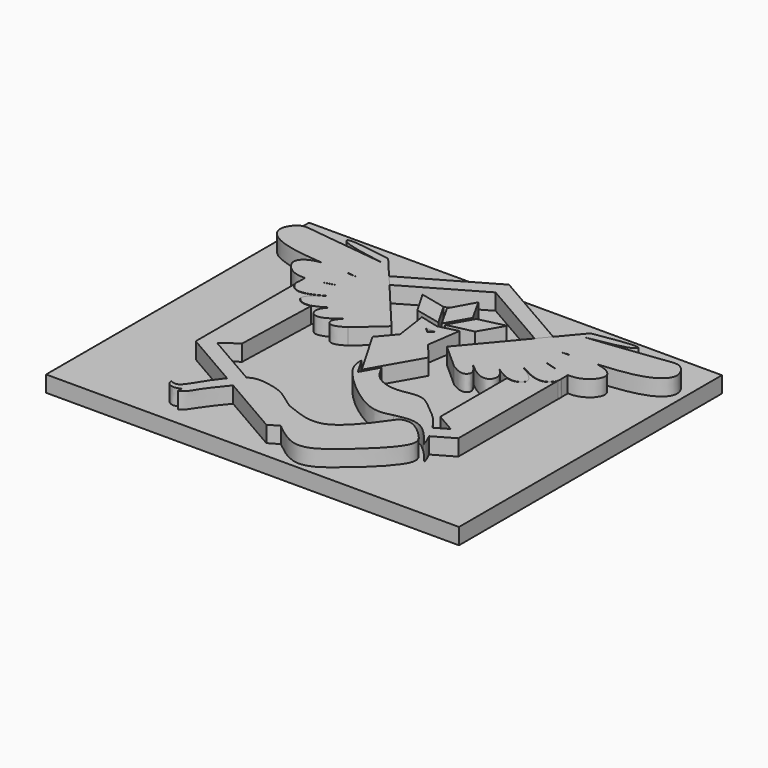
from build123d import *

# Parameters (mm, degrees)
F1_DEPTH = 10
F3_DEPTH = 10
F4_W     = 127.7562975883
F4_H     = 101.6951464117
F5_DEPTH = 5


with BuildPart() as f1:
    # F0 (on Top) → F1 (new body)
    with BuildSketch(Plane.XY):
        Polygon((-0.037533503, -10.0532314779), (8.6033990585, 5.0617455235), (4.2862257953, 10.1903617825), (5.7924173777, 20.5342948986), (-0.030947468, 19.0589953307), (-5.8543123136, 20.5342948986), (-4.3504838601, 10.2065908247), (-8.7271488798, 5.0265890218), align=None)
        Polygon((1.3200681544, 16.4562377287), (-0.030947468, 15.3189780414), (-1.3819630904, 16.4562377287), (-0.030947468, 16.4562377287), align=None, mode=Mode.SUBTRACT)
    extrude(amount=F1_DEPTH)


with BuildPart() as f1b:
    # F0 (on Top) → F1, piece 2 (new body)
    with BuildSketch(Plane.XY):
        with BuildLine():
            add(Edge.make_bspline(
                [(34.4284013555, -27.045455792), (35.3600013573, -28.9372826961), (37.0008979134, -33.1050957897), (29.9156782918, -21.8588097522), (23.8956450234, -23.1669477378), (20.8312440664, -23.8328333944)],
                knots=[0.6588598215, 0.6588598215, 0.6588598215, 0.6588598215, 0.7329669573, 0.8639882468, 1, 1, 1, 1], degree=3))
            add(Edge.make_bspline(
                [(32.2644740954, -23.0931151178), (33.0506844863, -24.379258321), (33.8133728368, -25.7964996991), (34.4284013555, -27.045455792)],
                knots=[0.6099353885, 0.6099353885, 0.6099353885, 0.6099353885, 0.6588598215, 0.6588598215, 0.6588598215, 0.6588598215], degree=3))
            add(Edge.make_bspline(
                [(3.0567574293, -6.1944438678), (3.9848109918, -8.003837565), (6.0107699758, -11.7542419141), (13.4800727578, -13.6374724066), (20.3321871566, -11.0420356518), (25.6511892095, -16.2087529946), (29.5313785943, -18.8196734729), (31.9652152447, -22.6035645581), (32.2644740954, -23.0931151178)],
                knots=[0, 0, 0, 0, 0.1103657069, 0.2303463498, 0.3471987609, 0.4601875072, 0.5913130582, 0.6099353885, 0.6099353885, 0.6099353885, 0.6099353885], degree=3))
            Line((3.0567574293, -6.1944438678), (-0.030947468, -11.5955493825))
            Line((-0.030947468, -11.5955493825), (-3.1186523653, -6.1944438678))
            add(Edge.make_bspline(
                [(20.8312440664, -23.8328333944), (18.7337018362, -24.4000098778), (13.1694232262, -25.9045936373), (-3.1674802695, -12.0688431783), (-3.1310528339, -7.686322452), (-3.1186523653, -6.1944438678)],
                knots=[0, 0, 0, 0, 0.2852447221, 0.7566861269, 1, 1, 1, 1], degree=3))
        make_face()
        with BuildLine():
            add(Edge.make_bspline(
                [(30.1520851954, 8.4418345719), (30.7056616309, 8.2742651756), (32.9674508776, 7.8792363089), (36.6506115224, 10.1905418663), (32.7850870608, 13.1548644755), (30.1463745871, 14.8571090417)],
                knots=[0.3359988487, 0.3359988487, 0.3359988487, 0.3359988487, 0.4067925409, 0.6343208012, 0.914371172, 0.914371172, 0.914371172, 0.914371172], degree=3))
            Line((30.1520851954, 8.4418345719), (30.1750758658, -17.3857924541))
            Line((30.1750758658, -17.3857924541), (36.1591195689, -20.8406816928))
            Line((36.1591195689, -20.8406816928), (32.2644740954, -23.0931151178))
            add(Edge.make_bspline(
                [(32.2644740954, -23.0931151178), (33.0506844863, -24.379258321), (33.8133728368, -25.7964996991), (34.4284013555, -27.045455792)],
                knots=[0.6099353885, 0.6099353885, 0.6099353885, 0.6099353885, 0.6588598215, 0.6588598215, 0.6588598215, 0.6588598215], degree=3))
            Line((34.4284013555, -27.045455792), (40.617752094, -23.4734256343))
            Line((40.617752094, -23.4734256343), (40.6335805026, 15.0312106805))
            add(Edge.make_bspline(
                [(30.1462746106, 14.9694222306), (33.2711890194, 13.2106124385), (37.8329188573, 11.1493299763), (40.3411280668, 13.9802111115), (40.6335805026, 15.0312106805)],
                knots=[0.08117602, 0.08117602, 0.08117602, 0.08117602, 0.3868465611, 0.5546064367, 0.5546064367, 0.5546064367, 0.5546064367], degree=3))
            Line((30.1462746106, 14.9694222306), (30.1463745871, 14.8571090417))
        make_face()
    extrude(amount=F1_DEPTH)


with BuildPart() as f1c:
    # F0 (on Top) → F1, piece 3 (new body)
    with BuildSketch(Plane.XY):
        with BuildLine():
            add(Edge.make_bspline(
                [(-19.2007327378, -30.6506493477), (-19.9600268212, -31.1982149243), (-20.9783985141, -31.9326145402), (-22.2969216909, -33.4388983059), (-22.6419915734, -33.8559761378)],
                knots=[0, 0, 0, 0, 0.187796204, 0.2518738686, 0.2518738686, 0.2518738686, 0.2518738686], degree=3))
            add(Edge.make_bspline(
                [(-22.6419915734, -33.8559761378), (-23.8560441479, -35.3233728632), (-26.5268603611, -39.1027607762), (-28.4447230038, -42.6391613379), (-30.3764073483, -44.2701016299), (-31.6718289502, -43.6769753014), (-32.3084965348, -43.3854684234)],
                knots=[0.2518738686, 0.2518738686, 0.2518738686, 0.2518738686, 0.4773170546, 0.7034772927, 0.8542664446, 1, 1, 1, 1], degree=3))
            add(Edge.make_bspline(
                [(-32.3084965348, -43.3854684234), (-32.1795805473, -43.908451779), (-31.9050702893, -45.0220785574), (-29.7321828674, -45.8117255746), (-28.4271400102, -45.2735521352), (-27.7666039765, -45.0011603534)],
                knots=[0, 0, 0, 0, 0.3042440872, 0.6478492269, 1, 1, 1, 1], degree=3))
            add(Edge.make_bspline(
                [(-27.7666039765, -45.0011603534), (-27.7466289874, -45.5680827015), (-27.7207636516, -46.302182574), (-27.8652992663, -46.6704373768), (-25.650460806, -45.107865042), (-24.620108858, -42.6263789611), (-21.0456112875, -38.1389553448), (-19.3560982845, -36.0863494154), (-19.1691676856, -35.8644439277)],
                knots=[0, 0, 0, 0, 0.0806988872, 0.1044958679, 0.2024237612, 0.3234768165, 0.514557657, 0.5390666627, 0.5390666627, 0.5390666627, 0.5390666627], degree=3))
            add(Edge.make_bspline(
                [(-19.1691676856, -35.8644439277), (-18.2446005856, -34.7668894642), (-16.5448454368, -33.0271320622), (-11.9689752712, -32.9941825697), (-7.8569858659, -36.5062585882), (-5.3997897313, -38.6049652643)],
                knots=[0.5390666627, 0.5390666627, 0.5390666627, 0.5390666627, 0.6602893007, 0.7969995214, 1, 1, 1, 1], degree=3))
            add(Edge.make_bspline(
                [(-0.030947468, -42.5693872959), (-1.839595469, -41.0505914318), (-3.6428744887, -39.6175814944), (-5.3997897313, -38.6049652643)],
                knots=[0.9225863183, 0.9225863183, 0.9225863183, 0.9225863183, 1, 1, 1, 1], degree=3))
            add(Edge.make_bspline(
                [(3.0319597178, -45.1651328166), (2.0142041592, -44.3127222397), (0.9907716691, -43.4273667361), (-0.030947468, -42.5693872959)],
                knots=[0.8788547353, 0.8788547353, 0.8788547353, 0.8788547353, 0.9225863183, 0.9225863183, 0.9225863183, 0.9225863183], degree=3))
            add(Edge.make_bspline(
                [(23.2507772744, -24.6867854148), (25.6337809798, -23.64421971), (28.6176010982, -24.9448565404), (32.2874450588, -28.168884329), (35.8691585685, -32.8962936625), (22.838232396, -45.2567678434), (12.9246488065, -52.9079454367), (5.781584896, -47.4680527705), (3.0319597178, -45.1651328166)],
                knots=[0, 0, 0, 0, 0.1236167905, 0.2403574098, 0.3499522813, 0.5672308883, 0.7607070519, 0.8788547353, 0.8788547353, 0.8788547353, 0.8788547353], degree=3))
            add(Edge.make_bspline(
                [(23.2507772744, -24.6867854148), (18.6963640153, -31.0914274305), (11.984949256, -40.127931258), (2.1353757382, -37.3791689726), (-0.5674925822, -36.0760557064), (-1.9408066291, -35.6458351016)],
                knots=[0, 0, 0, 0, 0.4648187878, 0.7730588392, 1, 1, 1, 1], degree=3))
            add(Edge.make_bspline(
                [(-1.9408066291, -35.6458351016), (-3.14190963, -34.8333496287), (-5.5382614372, -33.2123387496), (-8.5966224781, -30.6370317322), (-16.6117178489, -29.0807235817), (-18.493339203, -30.2217003518), (-19.2007327378, -30.6506493477)],
                knots=[0, 0, 0, 0, 0.2400971888, 0.4790241402, 0.8041396829, 1, 1, 1, 1], degree=3))
        make_face()
        with BuildLine():
            add(Edge.make_bspline(
                [(-30.2000900479, 14.973970379), (-33.3280068647, 13.2129078214), (-37.8312073865, 11.1758957294), (-40.3342467757, 13.9039273125), (-40.6590885916, 14.9101392527)],
                knots=[0.0809125949, 0.0809125949, 0.0809125949, 0.0809125949, 0.3868465611, 0.5481516251, 0.5481516251, 0.5481516251, 0.5481516251], degree=3))
            Line((-40.6590885916, 14.9101392527), (-40.6585509916, -23.4363060231))
            Line((-40.6585509916, -23.4363060231), (-22.6419915734, -33.8559761378))
            add(Edge.make_bspline(
                [(-19.2007327378, -30.6506493477), (-19.9600268212, -31.1982149243), (-20.9783985141, -31.9326145402), (-22.2969216909, -33.4388983059), (-22.6419915734, -33.8559761378)],
                knots=[0, 0, 0, 0, 0.187796204, 0.2518738686, 0.2518738686, 0.2518738686, 0.2518738686], degree=3))
            Line((-19.2007327378, -30.6506493477), (-36.1281195654, -20.8943752724))
            Line((-36.1281195654, -20.8943752724), (-31.1401495775, -17.3779801948))
            Line((-31.1401495775, -17.3779801948), (-30.3913872018, 8.3905191504))
            add(Edge.make_bspline(
                [(-30.3913872018, 8.3905191504), (-30.8823739284, 8.2551977617), (-33.0776637877, 7.9095574414), (-36.713604643, 10.1912310136), (-32.8443545571, 13.156878838), (-30.2033943435, 14.8602537454)],
                knots=[0.3435862937, 0.3435862937, 0.3435862937, 0.3435862937, 0.4067925409, 0.6343208012, 0.9145436216, 0.9145436216, 0.9145436216, 0.9145436216], degree=3))
            Line((-30.2033943435, 14.8602537454), (-30.2000900479, 14.973970379))
        make_face()
        with BuildLine():
            add(Edge.make_bspline(
                [(-19.1691676856, -35.8644439277), (-18.2446005856, -34.7668894642), (-16.5448454368, -33.0271320622), (-11.9689752712, -32.9941825697), (-7.8569858659, -36.5062585882), (-5.3997897313, -38.6049652643)],
                knots=[0.5390666627, 0.5390666627, 0.5390666627, 0.5390666627, 0.6602893007, 0.7969995214, 1, 1, 1, 1], degree=3))
            Line((-19.1691676856, -35.8644439277), (-0.030947468, -46.9328136768))
            Line((-0.030947468, -46.9328136768), (3.0319597178, -45.1651328166))
            add(Edge.make_bspline(
                [(3.0319597178, -45.1651328166), (2.0142041592, -44.3127222397), (0.9907716691, -43.4273667361), (-0.030947468, -42.5693872959)],
                knots=[0.8788547353, 0.8788547353, 0.8788547353, 0.8788547353, 0.9225863183, 0.9225863183, 0.9225863183, 0.9225863183], degree=3))
            add(Edge.make_bspline(
                [(-0.030947468, -42.5693872959), (-1.839595469, -41.0505914318), (-3.6428744887, -39.6175814944), (-5.3997897313, -38.6049652643)],
                knots=[0.9225863183, 0.9225863183, 0.9225863183, 0.9225863183, 1, 1, 1, 1], degree=3))
        make_face()
    extrude(amount=F1_DEPTH)


with BuildPart() as f1d:
    # F0 (on Top) → F1, piece 4 (new body)
    with BuildSketch(Plane.XY):
        Polygon((-3.9473144122, 27.8420612727), (-0.0327185618, 20.8914031988), (3.9239003559, 27.8420612727), (-0.030947468, 34.9473459876), align=None)
    extrude(amount=F1_DEPTH)


with BuildPart() as f1e:
    # F0 (on Top) → F1, piece 5 (new body)
    with BuildSketch(Plane.XY):
        Polygon((-8.9830060997, 22.6532355849), (-1.1140419221, 20.8615778857), (-5.1373155558, 27.8420612727), (-13.027295164, 29.6701812854), align=None)
    extrude(amount=F1_DEPTH)


with BuildPart() as f1f:
    # F0 (on Top) → F1, piece 6 (new body)
    with BuildSketch(Plane.XY):
        Polygon((5.0754206198, 27.8420612727), (1.0521469861, 20.8615778857), (8.9211111637, 22.6532355849), (12.9654002281, 29.6701812854), align=None)
    extrude(amount=F1_DEPTH)


with BuildPart() as f1g:
    # F0 (on Top) → F1, piece 7 (new body)
    with BuildSketch(Plane.XY):
        with BuildLine():
            Line((-0.030947468, 46.9327932705), (-25.5012995117, 32.2370034801))
            add(Edge.make_bspline(
                [(-22.5710441101, 28.741399743), (-23.5477959106, 29.9066009887), (-24.5245477112, 31.0718022344), (-25.5012995117, 32.2370034801)],
                knots=[21.7476548434, 21.7476548434, 21.7476548434, 21.7476548434, 26.3089750696, 26.3089750696, 26.3089750696, 26.3089750696], degree=3))
            Line((-22.5710441101, 28.741399743), (-0.0310000007, 41.7350569739))
            Line((-0.0310000007, 41.7350569739), (22.5105111039, 28.7430244364))
            add(Edge.make_bspline(
                [(22.5105111039, 28.7430244364), (23.4892387778, 29.9105827703), (24.4679664517, 31.0781411041), (25.4466941256, 32.245699438)],
                knots=[21.7497748626, 21.7497748626, 21.7497748626, 21.7497748626, 26.3203221935, 26.3203221935, 26.3203221935, 26.3203221935], degree=3))
            Line((25.4466941256, 32.245699438), (-0.030947468, 46.9327932705))
        make_face()
    extrude(amount=F1_DEPTH)


with BuildPart() as f1h:
    # F0 (on Top) → F1, piece 8 (new body)
    with BuildSketch(Plane.XY):
        with BuildLine():
            add(Edge.make_bspline(
                [(-36.6182222485, 19.3310602575), (-38.0221882921, 18.9921384058), (-39.3813816477, 18.7580774874), (-40.6591419304, 18.7147388241)],
                knots=[0.1165194091, 0.1165194091, 0.1165194091, 0.1165194091, 0.2119268233, 0.2119268233, 0.2119268233, 0.2119268233], degree=3))
            Line((-40.6591419304, 18.7147388241), (-40.6591113872, 16.5361297625))
            add(Edge.make_bspline(
                [(-40.6591113872, 16.5361297625), (-40.2084325599, 17.7162703655), (-38.6536256146, 18.5902886083), (-36.6182222485, 19.3310602575)],
                knots=[0.6363479988, 0.6363479988, 0.6363479988, 0.6363479988, 0.8417123454, 0.8417123454, 0.8417123454, 0.8417123454], degree=3))
        make_face()
    extrude(amount=F1_DEPTH)


with BuildPart() as f1i:
    # F0 (on Top) → F1, piece 9 (new body)
    with BuildSketch(Plane.XY):
        with BuildLine():
            add(Edge.make_bspline(
                [(-34.4221701261, 27.0898724522), (-37.1607609891, 27.2066657722), (-39.8646223733, 27.3385939124), (-42.4408649888, 27.5261372584)],
                knots=[0.0308509206, 0.0308509206, 0.0308509206, 0.0308509206, 0.1133664147, 0.1133664147, 0.1133664147, 0.1133664147], degree=3))
            Line((-34.4221701261, 27.0898724522), (-34.1055635389, 27.2725469532))
            add(Edge.make_bspline(
                [(-42.4408649888, 27.5261372584), (-40.0131358388, 27.7953066879), (-37.1142754386, 27.5893216122), (-34.1055635389, 27.2725469532)],
                knots=[0.7549390952, 0.7549390952, 0.7549390952, 0.7549390952, 0.9428602797, 0.9428602797, 0.9428602797, 0.9428602797], degree=3))
        make_face()
    extrude(amount=F1_DEPTH)


with BuildPart() as f1j:
    # F0 (on Top) → F1, piece 10 (new body)
    with BuildSketch(Plane.XY):
        with BuildLine():
            Line((40.6341559375, 16.431029886), (40.6350942149, 18.7135102538))
            add(Edge.make_bspline(
                [(36.5563273126, 19.3310602575), (37.9741639129, 18.9887900094), (39.3463387869, 18.7534628879), (40.6350942149, 18.7135102538)],
                knots=[0.1165194091, 0.1165194091, 0.1165194091, 0.1165194091, 0.2128694058, 0.2128694058, 0.2128694058, 0.2128694058], degree=3))
            add(Edge.make_bspline(
                [(40.6341559375, 16.431029886), (40.2377276752, 17.6646587457), (38.6516922955, 18.5684659728), (36.5563273126, 19.3310602575)],
                knots=[0.630298103, 0.630298103, 0.630298103, 0.630298103, 0.8417123454, 0.8417123454, 0.8417123454, 0.8417123454], degree=3))
        make_face()
    extrude(amount=F1_DEPTH)


with BuildPart() as f1k:
    # F0 (on Top) → F1, piece 11 (new body)
    with BuildSketch(Plane.XY):
        with BuildLine():
            Line((34.4195053844, 19.9079064183), (34.5517300836, 19.9842463838))
            add(Edge.make_bspline(
                [(34.5517300836, 19.9842463838), (33.5017570547, 20.296069661), (32.3903035064, 20.590847306), (31.2788499581, 20.8856249511)],
                knots=[0.9051250897, 0.9051250897, 0.9051250897, 0.9051250897, 1, 1, 1, 1], degree=3))
            add(Edge.make_bspline(
                [(31.2788499581, 20.8856249511), (32.3303123771, 20.5489984538), (33.3817747961, 20.2123719566), (34.4195053844, 19.9079064183)],
                knots=[0, 0, 0, 0, 0.0687742608, 0.0687742608, 0.0687742608, 0.0687742608], degree=3))
        make_face()
        with BuildLine():
            add(Edge.make_bspline(
                [(34.4195053844, 19.9079064183), (35.1399289875, 19.6965373379), (35.853734464, 19.5006683974), (36.5563273126, 19.3310602575)],
                knots=[0.0687742608, 0.0687742608, 0.0687742608, 0.0687742608, 0.1165194091, 0.1165194091, 0.1165194091, 0.1165194091], degree=3))
            add(Edge.make_bspline(
                [(36.5563273126, 19.3310602575), (35.9278320781, 19.5597969585), (35.2535138422, 19.7758291146), (34.5517300836, 19.9842463838)],
                knots=[0.8417123454, 0.8417123454, 0.8417123454, 0.8417123454, 0.9051250897, 0.9051250897, 0.9051250897, 0.9051250897], degree=3))
            Line((34.5517300836, 19.9842463838), (34.4195053844, 19.9079064183))
        make_face()
    extrude(amount=F1_DEPTH)


with BuildPart() as f1l:
    # F0 (on Top) → F1, piece 12 (new body)
    with BuildSketch(Plane.XY):
        with BuildLine():
            add(Edge.make_bspline(
                [(34.3884041139, 27.0910726591), (37.1173801677, 27.207569847), (39.8115482862, 27.3392360458), (42.3789700529, 27.5261372584)],
                knots=[0.031133447, 0.031133447, 0.031133447, 0.031133447, 0.1133664147, 0.1133664147, 0.1133664147, 0.1133664147], degree=3))
            add(Edge.make_bspline(
                [(42.3789700529, 27.5261372584), (39.9580501208, 27.79455173), (37.0686380602, 27.5904733551), (34.0689822223, 27.2752097692)],
                knots=[0.7549390952, 0.7549390952, 0.7549390952, 0.7549390952, 0.9423332043, 0.9423332043, 0.9423332043, 0.9423332043], degree=3))
            Line((34.0689822223, 27.2752097692), (34.3884041139, 27.0910726591))
        make_face()
        with BuildLine():
            Line((34.3884041139, 27.0910726591), (34.0689822223, 27.2752097692))
            add(Edge.make_bspline(
                [(34.0689822223, 27.2752097692), (33.1458980278, 27.178193695), (32.2123739929, 27.0706486288), (31.2788499581, 26.9631035626)],
                knots=[0.9423332043, 0.9423332043, 0.9423332043, 0.9423332043, 1, 1, 1, 1], degree=3))
            add(Edge.make_bspline(
                [(31.2788499581, 26.9631035626), (32.3170311144, 27.005035161), (33.3552122707, 27.0469667593), (34.3884041139, 27.0910726591)],
                knots=[0, 0, 0, 0, 0.031133447, 0.031133447, 0.031133447, 0.031133447], degree=3))
        make_face()
    extrude(amount=F1_DEPTH)


with BuildPart() as f3:
    # F2 (on Top) → F3 (new body)
    with BuildSketch(Plane.XY):
        with BuildLine():
            add(Edge.make_bspline(
                [(-42.4625238266, 27.6816681284), (-48.441517181, 28.1169223288), (-57.9284457804, 29.4343051194), (-62.8237151745, 34.8284945673), (-59.092817856, 40.23222254), (-54.2230191253, 39.5074424248), (-40.8177660802, 37.917921074), (-31.3624037319, 36.7967560887)],
                knots=[0.1133664147, 0.1133664147, 0.1133664147, 0.1133664147, 0.3048699586, 0.4566984909, 0.5874260631, 0.7089919858, 1, 1, 1, 1], degree=3))
            add(Edge.make_bspline(
                [(-40.6932788726, 18.8698524462), (-41.8517087322, 18.8316721147), (-45.6070576084, 19.2409570481), (-49.8768738904, 24.1441022945), (-46.2115579062, 27.0443853131), (-43.2452144075, 27.5948889351), (-42.4625238266, 27.6816681284)],
                knots=[0.2122374582, 0.2122374582, 0.2122374582, 0.2122374582, 0.2987706825, 0.5100013073, 0.694354025, 0.7549390952, 0.7549390952, 0.7549390952, 0.7549390952], degree=3))
            add(Edge.make_bspline(
                [(-36.6398810863, 19.4865911274), (-38.0484182723, 19.1465657875), (-39.4118907468, 18.9120853213), (-40.6932788726, 18.8698524462)],
                knots=[0.1165194091, 0.1165194091, 0.1165194091, 0.1165194091, 0.2122374582, 0.2122374582, 0.2122374582, 0.2122374582], degree=3))
            add(Edge.make_bspline(
                [(-40.6941891334, 16.6555262632), (-40.261695302, 17.8539936352), (-38.6960034406, 18.738278939), (-36.6398810863, 19.4865911274)],
                knots=[0.6342575328, 0.6342575328, 0.6342575328, 0.6342575328, 0.8417123454, 0.8417123454, 0.8417123454, 0.8417123454], degree=3))
            Line((-40.6941891334, 16.6555262632), (-40.6948242939, 15.1104167792))
            add(Edge.make_bspline(
                [(-30.2217488857, 15.129501249), (-33.3496657025, 13.3684386913), (-37.875890415, 11.3210116612), (-40.3814486588, 14.0874787815), (-40.6948242939, 15.1104167792)],
                knots=[0.0809125949, 0.0809125949, 0.0809125949, 0.0809125949, 0.3868465611, 0.5505405483, 0.5505405483, 0.5505405483, 0.5505405483], degree=3))
            add(Edge.make_bspline(
                [(-27.7148682451, 16.586560756), (-28.5546770398, 16.0909115537), (-29.3944858345, 15.5952623514), (-30.2217488857, 15.129501249)],
                knots=[0, 0, 0, 0, 0.0809125949, 0.0809125949, 0.0809125949, 0.0809125949], degree=3))
            add(Edge.make_bspline(
                [(-30.2250531813, 15.0157846154), (-29.4196694689, 15.5352435604), (-28.567268857, 16.0609021582), (-27.7148682451, 16.586560756)],
                knots=[0.9145436216, 0.9145436216, 0.9145436216, 0.9145436216, 1, 1, 1, 1], degree=3))
            add(Edge.make_bspline(
                [(-25.8691775941, 10.9627903922), (-28.0071693255, 9.4415081563), (-31.9350937138, 7.3344960258), (-36.7352634808, 10.3467618835), (-32.8660133949, 13.3124097079), (-30.2250531813, 15.0157846154)],
                knots=[0.1607656553, 0.1607656553, 0.1607656553, 0.1607656553, 0.4067925409, 0.6343208012, 0.9145436216, 0.9145436216, 0.9145436216, 0.9145436216], degree=3))
            add(Edge.make_bspline(
                [(-19.3467553591, 8.8511752233), (-21.0366741879, 7.3458359671), (-24.1021701096, 4.9400128041), (-27.5508975976, 4.8592248034), (-28.5923753493, 7.921293032), (-26.8961549693, 10.0071706501), (-25.8691775941, 10.9627903922)],
                knots=[0.1168233602, 0.1168233602, 0.1168233602, 0.1168233602, 0.3269855819, 0.5125971792, 0.6880016124, 0.8325746827, 0.8325746827, 0.8325746827, 0.8325746827], degree=3))
            add(Edge.make_bspline(
                [(-16.4931286334, 5.2172763935), (-17.874092499, 4.4372724907), (-20.2724846708, 3.0144847042), (-22.5760545019, 5.1742079464), (-20.7458687576, 7.4599197862), (-19.3467553591, 8.8511752233)],
                knots=[0, 0, 0, 0, 0.3228151937, 0.5471631559, 0.8281462975, 0.8281462975, 0.8281462975, 0.8281462975], degree=3))
            Line((-16.4931286334, 5.2172763935), (-8.6217077277, 12.2304437682))
            add(Edge.make_bspline(
                [(-8.6217077277, 12.2304437682), (-13.2787061344, 17.7859393831), (-17.9357045411, 23.341434998), (-22.5927029479, 28.8969306129)],
                knots=[0, 0, 0, 0, 21.7476548434, 21.7476548434, 21.7476548434, 21.7476548434], degree=3))
            add(Edge.make_bspline(
                [(-22.5927029479, 28.8969306129), (-25.5159365425, 32.3841577919), (-28.4391701372, 35.8713849709), (-31.3624037319, 39.35861215)],
                knots=[21.7476548434, 21.7476548434, 21.7476548434, 21.7476548434, 35.3988244791, 35.3988244791, 35.3988244791, 35.3988244791], degree=3))
            add(Edge.make_bspline(
                [(-31.3624037319, 36.7967560887), (-36.7102502106, 37.6946826951), (-43.7343638025, 38.8334685109), (-46.4547199475, 41.783531347), (-37.9054935767, 40.4283454727), (-31.3624037319, 39.35861215)],
                knots=[0, 0, 0, 0, 0.4277620958, 0.5627210758, 1, 1, 1, 1], degree=3))
        make_face()
        with BuildLine():
            add(Edge.make_bspline(
                [(-16.4931286334, 11.4979980244), (-17.4488112776, 10.5951195832), (-18.4073762717, 9.6879516369), (-19.3467553591, 8.8511752233)],
                knots=[0, 0, 0, 0, 0.1168233602, 0.1168233602, 0.1168233602, 0.1168233602], degree=3))
            add(Edge.make_bspline(
                [(-19.3467553591, 8.8511752233), (-18.4910356306, 9.7020888993), (-17.4926212955, 10.5980086989), (-16.4931286334, 11.4979980244)],
                knots=[0.8281462975, 0.8281462975, 0.8281462975, 0.8281462975, 1, 1, 1, 1], degree=3))
        make_face(mode=Mode.SUBTRACT)
        with BuildLine():
            add(Edge.make_bspline(
                [(-21.5948793864, 14.3093550578), (-23.0334958057, 13.133111768), (-24.472112225, 11.9568684783), (-25.8691775941, 10.9627903922)],
                knots=[0, 0, 0, 0, 0.1607656553, 0.1607656553, 0.1607656553, 0.1607656553], degree=3))
            add(Edge.make_bspline(
                [(-25.8691775941, 10.9627903922), (-24.6798688762, 12.0694621823), (-23.1410823287, 13.1938006402), (-21.5948793864, 14.3093550578)],
                knots=[0.8325746827, 0.8325746827, 0.8325746827, 0.8325746827, 1, 1, 1, 1], degree=3))
        make_face(mode=Mode.SUBTRACT)
        with BuildLine():
            add(Edge.make_bspline(
                [(-34.4950716996, 20.0657813281), (-35.2182067322, 19.8535162722), (-35.9346917371, 19.6568260708), (-36.6398810863, 19.4865911274)],
                knots=[0.068597814, 0.068597814, 0.068597814, 0.068597814, 0.1165194091, 0.1165194091, 0.1165194091, 0.1165194091], degree=3))
            add(Edge.make_bspline(
                [(-36.6398810863, 19.4865911274), (-36.0094073497, 19.7160478913), (-35.3328216558, 19.9327199966), (-34.6286553981, 20.1417453195)],
                knots=[0.8417123454, 0.8417123454, 0.8417123454, 0.8417123454, 0.9053247129, 0.9053247129, 0.9053247129, 0.9053247129], degree=3))
            add(Edge.make_bspline(
                [(-34.6286553981, 20.1417453195), (-33.5806336812, 20.4528409952), (-32.4715187066, 20.7469984081), (-31.3624037319, 21.041155821)],
                knots=[0.9053247129, 0.9053247129, 0.9053247129, 0.9053247129, 1, 1, 1, 1], degree=3))
            add(Edge.make_bspline(
                [(-31.3624037319, 21.041155821), (-32.4111685247, 20.7053929709), (-33.4599333174, 20.3696301208), (-34.4950716996, 20.0657813281)],
                knots=[0, 0, 0, 0, 0.068597814, 0.068597814, 0.068597814, 0.068597814], degree=3))
        make_face(mode=Mode.SUBTRACT)
        with BuildLine():
            add(Edge.make_bspline(
                [(-31.3624037319, 27.1186344326), (-32.3911637134, 27.1601855146), (-33.4199236949, 27.2017365965), (-34.4438289639, 27.2454033222)],
                knots=[0, 0, 0, 0, 0.0308509206, 0.0308509206, 0.0308509206, 0.0308509206], degree=3))
            add(Edge.make_bspline(
                [(-34.4438289639, 27.2454033222), (-37.1824198269, 27.3621966422), (-39.8862812111, 27.4941247824), (-42.4625238266, 27.6816681284)],
                knots=[0.0308509206, 0.0308509206, 0.0308509206, 0.0308509206, 0.1133664147, 0.1133664147, 0.1133664147, 0.1133664147], degree=3))
            add(Edge.make_bspline(
                [(-42.4625238266, 27.6816681284), (-40.0347946766, 27.9508375579), (-37.1359342764, 27.7448524822), (-34.1272223767, 27.4280778232)],
                knots=[0.7549390952, 0.7549390952, 0.7549390952, 0.7549390952, 0.9428602797, 0.9428602797, 0.9428602797, 0.9428602797], degree=3))
            add(Edge.make_bspline(
                [(-34.1272223767, 27.4280778232), (-33.2123869537, 27.3317586378), (-32.2873953428, 27.2251965352), (-31.3624037319, 27.1186344326)],
                knots=[0.9428602797, 0.9428602797, 0.9428602797, 0.9428602797, 1, 1, 1, 1], degree=3))
        make_face(mode=Mode.SUBTRACT)
        with BuildLine():
            add(Edge.make_bspline(
                [(-36.6398810863, 19.4865911274), (-38.0484182723, 19.1465657875), (-39.4118907468, 18.9120853213), (-40.6932788726, 18.8698524462)],
                knots=[0.1165194091, 0.1165194091, 0.1165194091, 0.1165194091, 0.2122374582, 0.2122374582, 0.2122374582, 0.2122374582], degree=3))
            Line((-40.6932788726, 18.8698524462), (-40.6941891334, 16.6555262632))
            add(Edge.make_bspline(
                [(-40.6941891334, 16.6555262632), (-40.261695302, 17.8539936352), (-38.6960034406, 18.738278939), (-36.6398810863, 19.4865911274)],
                knots=[0.6342575328, 0.6342575328, 0.6342575328, 0.6342575328, 0.8417123454, 0.8417123454, 0.8417123454, 0.8417123454], degree=3))
        make_face()
        with BuildLine():
            add(Edge.make_bspline(
                [(-34.4438289639, 27.2454033222), (-37.1824198269, 27.3621966422), (-39.8862812111, 27.4941247824), (-42.4625238266, 27.6816681284)],
                knots=[0.0308509206, 0.0308509206, 0.0308509206, 0.0308509206, 0.1133664147, 0.1133664147, 0.1133664147, 0.1133664147], degree=3))
            Line((-34.4438289639, 27.2454033222), (-34.1272223767, 27.4280778232))
            add(Edge.make_bspline(
                [(-42.4625238266, 27.6816681284), (-40.0347946766, 27.9508375579), (-37.1359342764, 27.7448524822), (-34.1272223767, 27.4280778232)],
                knots=[0.7549390952, 0.7549390952, 0.7549390952, 0.7549390952, 0.9428602797, 0.9428602797, 0.9428602797, 0.9428602797], degree=3))
        make_face()
        with BuildLine():
            add(Edge.make_bspline(
                [(-25.8691775941, 10.9627903922), (-24.6798688762, 12.0694621823), (-23.1410823287, 13.1938006402), (-21.5948793864, 14.3093550578)],
                knots=[0.8325746827, 0.8325746827, 0.8325746827, 0.8325746827, 1, 1, 1, 1], degree=3))
            add(Edge.make_bspline(
                [(-21.5948793864, 14.3093550578), (-23.0334958057, 13.133111768), (-24.472112225, 11.9568684783), (-25.8691775941, 10.9627903922)],
                knots=[0, 0, 0, 0, 0.1607656553, 0.1607656553, 0.1607656553, 0.1607656553], degree=3))
        make_face()
        with BuildLine():
            Line((-40.6948242939, 15.1104167792), (-40.6941891334, 16.6555262632))
            add(Edge.make_bspline(
                [(-40.6948242939, 15.1104167792), (-40.8475120912, 15.6088286918), (-40.8682457526, 16.1465994226), (-40.7024436007, 16.6326526196), (-40.6941891334, 16.6555262632)],
                knots=[0.5505405483, 0.5505405483, 0.5505405483, 0.5505405483, 0.630298103, 0.6342575328, 0.6342575328, 0.6342575328, 0.6342575328], degree=3))
        make_face()
        with BuildLine():
            add(Edge.make_bspline(
                [(-27.7148682451, 16.586560756), (-28.5546770398, 16.0909115537), (-29.3944858345, 15.5952623514), (-30.2217488857, 15.129501249)],
                knots=[0, 0, 0, 0, 0.0809125949, 0.0809125949, 0.0809125949, 0.0809125949], degree=3))
            Line((-30.2217488857, 15.129501249), (-30.2250531813, 15.0157846154))
            add(Edge.make_bspline(
                [(-30.2250531813, 15.0157846154), (-29.4196694689, 15.5352435604), (-28.567268857, 16.0609021582), (-27.7148682451, 16.586560756)],
                knots=[0.9145436216, 0.9145436216, 0.9145436216, 0.9145436216, 1, 1, 1, 1], degree=3))
        make_face()
        with BuildLine():
            add(Edge.make_bspline(
                [(-19.3467553591, 8.8511752233), (-18.4910356306, 9.7020888993), (-17.4926212955, 10.5980086989), (-16.4931286334, 11.4979980244)],
                knots=[0.8281462975, 0.8281462975, 0.8281462975, 0.8281462975, 1, 1, 1, 1], degree=3))
            add(Edge.make_bspline(
                [(-16.4931286334, 11.4979980244), (-17.4488112776, 10.5951195832), (-18.4073762717, 9.6879516369), (-19.3467553591, 8.8511752233)],
                knots=[0, 0, 0, 0, 0.1168233602, 0.1168233602, 0.1168233602, 0.1168233602], degree=3))
        make_face()
    extrude(amount=F3_DEPTH)


with BuildPart() as f3b:
    # F2 (on Top) → F3, piece 2 (new body)
    with BuildSketch(Plane.XY):
        with BuildLine():
            add(Edge.make_bspline(
                [(22.4888522661, 28.8985553064), (25.4116318841, 32.3852409209), (28.3344115022, 35.8719265354), (31.2571911203, 39.35861215)],
                knots=[21.7497748626, 21.7497748626, 21.7497748626, 21.7497748626, 35.3988244791, 35.3988244791, 35.3988244791, 35.3988244791], degree=3))
            add(Edge.make_bspline(
                [(8.5164951161, 12.2304437682), (13.1739474995, 17.7864809476), (17.8313998828, 23.342518127), (22.4888522661, 28.8985553064)],
                knots=[0, 0, 0, 0, 21.7497748626, 21.7497748626, 21.7497748626, 21.7497748626], degree=3))
            Line((8.5164951161, 12.2304437682), (16.3879160218, 5.2172763935))
            add(Edge.make_bspline(
                [(16.3879160218, 5.2172763935), (17.7688798874, 4.4372724907), (20.1672720592, 3.0144847042), (22.4708418903, 5.1742079464), (20.640656146, 7.4599197862), (19.2415427476, 8.8511752233)],
                knots=[0, 0, 0, 0, 0.3228151937, 0.5471631559, 0.8281462975, 0.8281462975, 0.8281462975, 0.8281462975], degree=3))
            add(Edge.make_bspline(
                [(19.2415427476, 8.8511752233), (20.9314615764, 7.3458359671), (23.9969574981, 4.9400128041), (27.4456849861, 4.8592248034), (28.4871627377, 7.921293032), (26.7909423577, 10.0071706501), (25.7639649826, 10.9627903922)],
                knots=[0.1168233602, 0.1168233602, 0.1168233602, 0.1168233602, 0.3269855819, 0.5125971792, 0.6880016124, 0.8325746827, 0.8325746827, 0.8325746827, 0.8325746827], degree=3))
            add(Edge.make_bspline(
                [(25.7639649826, 10.9627903922), (27.9019567139, 9.4415081563), (31.8298811022, 7.3344960258), (36.6289526846, 10.3460727362), (32.763428223, 13.3103953454), (30.1247157493, 15.0126399116)],
                knots=[0.1607656553, 0.1607656553, 0.1607656553, 0.1607656553, 0.4067925409, 0.6343208012, 0.914371172, 0.914371172, 0.914371172, 0.914371172], degree=3))
            add(Edge.make_bspline(
                [(30.1247157493, 15.0126399116), (29.317897119, 15.5331220191), (28.4637763763, 16.0598413875), (27.6096556336, 16.586560756)],
                knots=[0.914371172, 0.914371172, 0.914371172, 0.914371172, 1, 1, 1, 1], degree=3))
            add(Edge.make_bspline(
                [(27.6096556336, 16.586560756), (28.4521985725, 16.0892978811), (29.2947415114, 15.5920350063), (30.1246157728, 15.1249531006)],
                knots=[0, 0, 0, 0, 0.08117602, 0.08117602, 0.08117602, 0.08117602], degree=3))
            add(Edge.make_bspline(
                [(30.1246157728, 15.1249531006), (33.2495301816, 13.3661433084), (37.7643943525, 11.3260377639), (40.2677155003, 14.0780913127), (40.5849888686, 15.09546117)],
                knots=[0.08117602, 0.08117602, 0.08117602, 0.08117602, 0.3868465611, 0.549742573, 0.549742573, 0.549742573, 0.549742573], degree=3))
            Line((40.5849888686, 15.09546117), (40.5849668427, 16.6665399906))
            add(Edge.make_bspline(
                [(40.5849668427, 16.6665399906), (40.1468780615, 17.8594143412), (38.5844872851, 18.7405730723), (36.5346684748, 19.4865911274)],
                knots=[0.6348935361, 0.6348935361, 0.6348935361, 0.6348935361, 0.8417123454, 0.8417123454, 0.8417123454, 0.8417123454], degree=3))
            add(Edge.make_bspline(
                [(36.5346684748, 19.4865911274), (37.9420587465, 19.1468426562), (39.3044576656, 18.912467247), (40.5849359518, 18.8699559941)],
                knots=[0.1165194091, 0.1165194091, 0.1165194091, 0.1165194091, 0.2121595189, 0.2121595189, 0.2121595189, 0.2121595189], degree=3))
            add(Edge.make_bspline(
                [(40.5849359518, 18.8699559941), (41.7445301288, 18.8314580345), (45.5011547354, 19.2401644023), (49.7716612789, 24.1441022945), (46.1063452947, 27.0443853131), (43.1400017959, 27.5948889351), (42.3573112151, 27.6816681284)],
                knots=[0.2121595189, 0.2121595189, 0.2121595189, 0.2121595189, 0.2987706825, 0.5100013073, 0.694354025, 0.7549390952, 0.7549390952, 0.7549390952, 0.7549390952], degree=3))
            add(Edge.make_bspline(
                [(42.3573112151, 27.6816681284), (48.3363045695, 28.1169223288), (57.8232331688, 29.4343051194), (62.7185025629, 34.8284945673), (58.9876052444, 40.23222254), (54.1178065137, 39.5074424248), (40.7125534686, 37.917921074), (31.2571911203, 36.7967560887)],
                knots=[0.1133664147, 0.1133664147, 0.1133664147, 0.1133664147, 0.3048699586, 0.4566984909, 0.5874260631, 0.7089919858, 1, 1, 1, 1], degree=3))
            add(Edge.make_bspline(
                [(31.2571911203, 36.7967560887), (36.605037599, 37.6946826951), (43.629151191, 38.8334685109), (46.349507336, 41.783531347), (37.8002809651, 40.4283454727), (31.2571911203, 39.35861215)],
                knots=[0, 0, 0, 0, 0.4277620958, 0.5627210758, 1, 1, 1, 1], degree=3))
        make_face()
        with BuildLine():
            add(Edge.make_bspline(
                [(19.2415427476, 8.8511752233), (18.385823019, 9.7020888993), (17.387408684, 10.5980086989), (16.3879160218, 11.4979980244)],
                knots=[0.8281462975, 0.8281462975, 0.8281462975, 0.8281462975, 1, 1, 1, 1], degree=3))
            add(Edge.make_bspline(
                [(16.3879160218, 11.4979980244), (17.3435986661, 10.5951195832), (18.3021636601, 9.6879516369), (19.2415427476, 8.8511752233)],
                knots=[0, 0, 0, 0, 0.1168233602, 0.1168233602, 0.1168233602, 0.1168233602], degree=3))
        make_face(mode=Mode.SUBTRACT)
        with BuildLine():
            add(Edge.make_bspline(
                [(25.7639649826, 10.9627903922), (24.5746562646, 12.0694621823), (23.0358697171, 13.1938006402), (21.4896667749, 14.3093550578)],
                knots=[0.8325746827, 0.8325746827, 0.8325746827, 0.8325746827, 1, 1, 1, 1], degree=3))
            add(Edge.make_bspline(
                [(21.4896667749, 14.3093550578), (22.9282831941, 13.133111768), (24.3668996134, 11.9568684783), (25.7639649826, 10.9627903922)],
                knots=[0, 0, 0, 0, 0.1607656553, 0.1607656553, 0.1607656553, 0.1607656553], degree=3))
        make_face(mode=Mode.SUBTRACT)
        with BuildLine():
            add(Edge.make_bspline(
                [(36.5346684748, 19.4865911274), (35.9061732403, 19.7153278285), (35.2318550044, 19.9313599845), (34.5300712458, 20.1397772538)],
                knots=[0.8417123454, 0.8417123454, 0.8417123454, 0.8417123454, 0.9051250897, 0.9051250897, 0.9051250897, 0.9051250897], degree=3))
            add(Edge.make_bspline(
                [(34.3978465466, 20.0634372882), (35.1182701497, 19.8520682078), (35.8320756262, 19.6561992674), (36.5346684748, 19.4865911274)],
                knots=[0.0687742608, 0.0687742608, 0.0687742608, 0.0687742608, 0.1165194091, 0.1165194091, 0.1165194091, 0.1165194091], degree=3))
            add(Edge.make_bspline(
                [(31.2571911203, 21.041155821), (32.3086535393, 20.7045293238), (33.3601159583, 20.3679028266), (34.3978465466, 20.0634372882)],
                knots=[0, 0, 0, 0, 0.0687742608, 0.0687742608, 0.0687742608, 0.0687742608], degree=3))
            add(Edge.make_bspline(
                [(34.5300712458, 20.1397772538), (33.4800982169, 20.4516005309), (32.3686446686, 20.746378176), (31.2571911203, 21.041155821)],
                knots=[0.9051250897, 0.9051250897, 0.9051250897, 0.9051250897, 1, 1, 1, 1], degree=3))
        make_face(mode=Mode.SUBTRACT)
        with BuildLine():
            add(Edge.make_bspline(
                [(42.3573112151, 27.6816681284), (39.936391283, 27.9500826), (37.0469792224, 27.7460042251), (34.0473233845, 27.4307406391)],
                knots=[0.7549390952, 0.7549390952, 0.7549390952, 0.7549390952, 0.9423332043, 0.9423332043, 0.9423332043, 0.9423332043], degree=3))
            add(Edge.make_bspline(
                [(34.3667452761, 27.2466035291), (37.0957213299, 27.363100717), (39.7898894484, 27.4947669158), (42.3573112151, 27.6816681284)],
                knots=[0.031133447, 0.031133447, 0.031133447, 0.031133447, 0.1133664147, 0.1133664147, 0.1133664147, 0.1133664147], degree=3))
            add(Edge.make_bspline(
                [(31.2571911203, 27.1186344326), (32.2953722766, 27.1605660309), (33.3335534329, 27.2024976293), (34.3667452761, 27.2466035291)],
                knots=[0, 0, 0, 0, 0.031133447, 0.031133447, 0.031133447, 0.031133447], degree=3))
            add(Edge.make_bspline(
                [(34.0473233845, 27.4307406391), (33.12423919, 27.3337245649), (32.1907151552, 27.2261794987), (31.2571911203, 27.1186344326)],
                knots=[0.9423332043, 0.9423332043, 0.9423332043, 0.9423332043, 1, 1, 1, 1], degree=3))
        make_face(mode=Mode.SUBTRACT)
        with BuildLine():
            Line((40.5849668427, 16.6665399906), (40.5849359518, 18.8699559941))
            add(Edge.make_bspline(
                [(36.5346684748, 19.4865911274), (37.9420587465, 19.1468426562), (39.3044576656, 18.912467247), (40.5849359518, 18.8699559941)],
                knots=[0.1165194091, 0.1165194091, 0.1165194091, 0.1165194091, 0.2121595189, 0.2121595189, 0.2121595189, 0.2121595189], degree=3))
            add(Edge.make_bspline(
                [(40.5849668427, 16.6665399906), (40.1468780615, 17.8594143412), (38.5844872851, 18.7405730723), (36.5346684748, 19.4865911274)],
                knots=[0.6348935361, 0.6348935361, 0.6348935361, 0.6348935361, 0.8417123454, 0.8417123454, 0.8417123454, 0.8417123454], degree=3))
        make_face()
        with BuildLine():
            add(Edge.make_bspline(
                [(34.3667452761, 27.2466035291), (37.0957213299, 27.363100717), (39.7898894484, 27.4947669158), (42.3573112151, 27.6816681284)],
                knots=[0.031133447, 0.031133447, 0.031133447, 0.031133447, 0.1133664147, 0.1133664147, 0.1133664147, 0.1133664147], degree=3))
            add(Edge.make_bspline(
                [(42.3573112151, 27.6816681284), (39.936391283, 27.9500826), (37.0469792224, 27.7460042251), (34.0473233845, 27.4307406391)],
                knots=[0.7549390952, 0.7549390952, 0.7549390952, 0.7549390952, 0.9423332043, 0.9423332043, 0.9423332043, 0.9423332043], degree=3))
            Line((34.0473233845, 27.4307406391), (34.3667452761, 27.2466035291))
        make_face()
        with BuildLine():
            add(Edge.make_bspline(
                [(21.4896667749, 14.3093550578), (22.9282831941, 13.133111768), (24.3668996134, 11.9568684783), (25.7639649826, 10.9627903922)],
                knots=[0, 0, 0, 0, 0.1607656553, 0.1607656553, 0.1607656553, 0.1607656553], degree=3))
            add(Edge.make_bspline(
                [(25.7639649826, 10.9627903922), (24.5746562646, 12.0694621823), (23.0358697171, 13.1938006402), (21.4896667749, 14.3093550578)],
                knots=[0.8325746827, 0.8325746827, 0.8325746827, 0.8325746827, 1, 1, 1, 1], degree=3))
        make_face()
        with BuildLine():
            add(Edge.make_bspline(
                [(40.5849888686, 15.09546117), (40.7418872727, 15.5985721244), (40.7647845602, 16.1460556742), (40.5947010042, 16.6400347888), (40.5849668427, 16.6665399906)],
                knots=[0.549742573, 0.549742573, 0.549742573, 0.549742573, 0.630298103, 0.6348935361, 0.6348935361, 0.6348935361, 0.6348935361], degree=3))
            Line((40.5849668427, 16.6665399906), (40.5849888686, 15.09546117))
        make_face()
        with BuildLine():
            add(Edge.make_bspline(
                [(30.1247157493, 15.0126399116), (29.317897119, 15.5331220191), (28.4637763763, 16.0598413875), (27.6096556336, 16.586560756)],
                knots=[0.914371172, 0.914371172, 0.914371172, 0.914371172, 1, 1, 1, 1], degree=3))
            Line((30.1247157493, 15.0126399116), (30.1246157728, 15.1249531006))
            add(Edge.make_bspline(
                [(27.6096556336, 16.586560756), (28.4521985725, 16.0892978811), (29.2947415114, 15.5920350063), (30.1246157728, 15.1249531006)],
                knots=[0, 0, 0, 0, 0.08117602, 0.08117602, 0.08117602, 0.08117602], degree=3))
        make_face()
        with BuildLine():
            add(Edge.make_bspline(
                [(16.3879160218, 11.4979980244), (17.3435986661, 10.5951195832), (18.3021636601, 9.6879516369), (19.2415427476, 8.8511752233)],
                knots=[0, 0, 0, 0, 0.1168233602, 0.1168233602, 0.1168233602, 0.1168233602], degree=3))
            add(Edge.make_bspline(
                [(19.2415427476, 8.8511752233), (18.385823019, 9.7020888993), (17.387408684, 10.5980086989), (16.3879160218, 11.4979980244)],
                knots=[0.8281462975, 0.8281462975, 0.8281462975, 0.8281462975, 1, 1, 1, 1], degree=3))
        make_face()
    extrude(amount=F3_DEPTH)


with BuildPart() as f3c:
    # F2 (on Top) → F3, piece 3 (new body)
    with BuildSketch(Plane.XY):
        Polygon((-3.96897325, 27.9975921426), (-0.0543773996, 21.0469340687), (3.9022415181, 27.9975921426), (-0.0526063058, 35.1028768576), align=None)
    extrude(amount=F3_DEPTH)


with BuildPart() as f3d:
    # F2 (on Top) → F3, piece 4 (new body)
    with BuildSketch(Plane.XY):
        Polygon((5.053761782, 27.9975921426), (1.0304881483, 21.0171087557), (8.8994523259, 22.8087664549), (12.9437413903, 29.8257121554), align=None)
    extrude(amount=F3_DEPTH)


with BuildPart() as f3e:
    # F2 (on Top) → F3, piece 5 (new body)
    with BuildSketch(Plane.XY):
        Polygon((-9.0046649374, 22.8087664549), (-1.1357007599, 21.0171087557), (-5.1589743936, 27.9975921426), (-13.0489540018, 29.8257121554), align=None)
    extrude(amount=F3_DEPTH)


with BuildPart() as f3f:
    # F2 (on Top) → F3, piece 6 (new body)
    with BuildSketch(Plane.XY):
        Polygon((-1.4036219282, 16.6117685987), (-0.0526063058, 15.4745089113), (1.2984093166, 16.6117685987), (-0.0526063058, 16.6117685987), align=None)
    extrude(amount=F3_DEPTH)


with BuildPart() as f5:
    # F4 (on Top) → F5 (new body)
    with BuildSketch(Plane.XY):
        with Locations((-0.1416355371, -1.2747291476)):
            Rectangle(F4_W, F4_H)
    extrude(amount=F5_DEPTH)


solid = Compound([f1.part, f1b.part, f1c.part, f1d.part, f1e.part, f1f.part, f1g.part, f1h.part, f1i.part, f1j.part, f1k.part, f1l.part, f3.part, f3b.part, f3c.part, f3d.part, f3e.part, f3f.part, f5.part])
